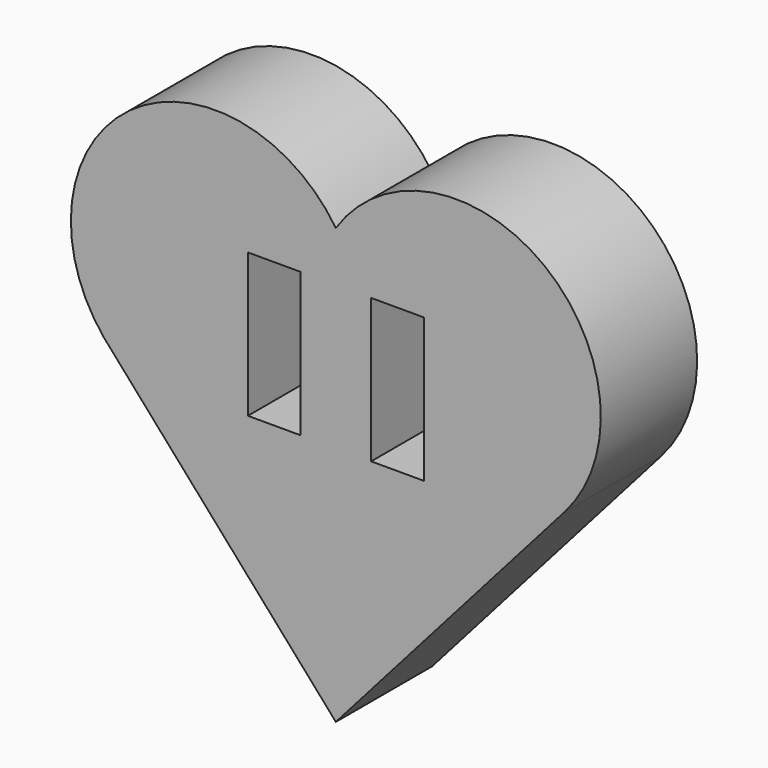
from build123d import *

# Parameters (mm, degrees)
F1_DEPTH = 6.35
F2_W     = 2.774914
F2_H     = 7.584815
F3_DEPTH = 25.4


with BuildPart() as f1:
    # F0 (on Front) → F1 (new body)
    with BuildSketch(Plane.XZ):
        with BuildLine():
            ThreePointArc((12.063488, 0.970442), (10.987924, 12.058307), (0, 10.224426))
            ThreePointArc((0, 10.224426), (-10.883613, 12.136914), (-12.232943, 1.169236))
            Line((-12.232943, 1.169236), (-11.889853, 0.780254))
            Line((-11.889853, 0.780254), (0, -12.7))
            Line((0, -12.7), (12.063488, 0.970442))
        make_face()
    extrude(amount=F1_DEPTH)

    # F2 (on face) → F3 (cut)
    with BuildSketch(Plane.XZ.offset(6.35)):
        with Locations((-3.250018, 3.792407)):
            Rectangle(F2_W, F2_H)
        with Locations((3.250018, 3.792407)):
            Rectangle(F2_W, F2_H)
    extrude(amount=-F3_DEPTH, mode=Mode.SUBTRACT)


solid = f1.part
